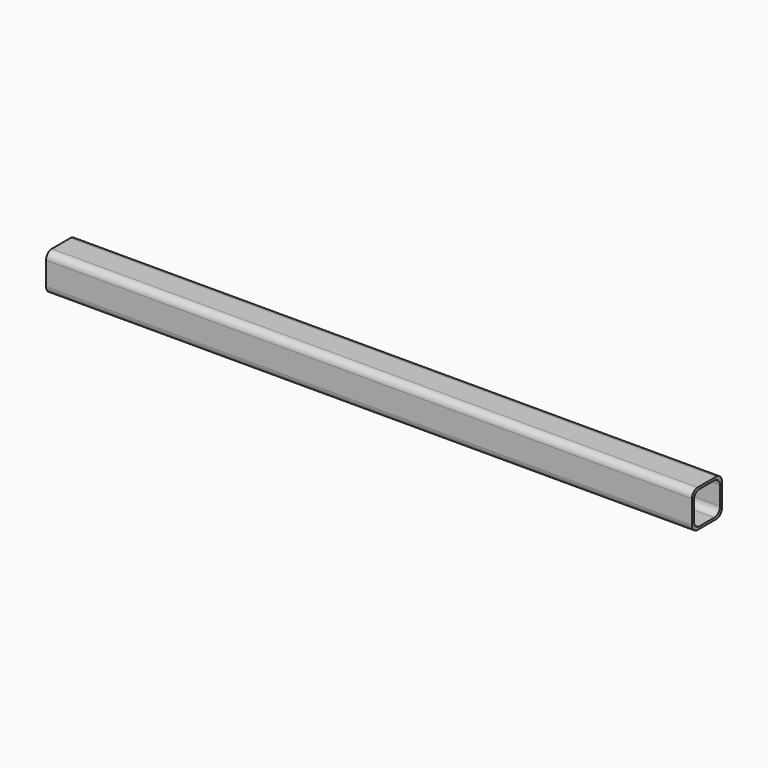
from build123d import *

# Parameters (mm, degrees)
F0_W     = 50.8
F0_H     = 50.8
F1_DEPTH = 876.3
F2_W     = 44.45
F2_H     = 44.45
F3_DEPTH = 876.3
F4_R     = 9.525


with BuildPart() as f1:
    # F0 (on Right) → F1 (new body)
    with BuildSketch(Plane.YZ):
        with Locations((25.4, 25.4)):
            Rectangle(F0_W, F0_H)
    extrude(amount=-F1_DEPTH)

    # F2 (on face) → F3 (cut)
    with BuildSketch(Plane.YZ):
        with Locations((25.4, 25.4)):
            Rectangle(F2_W, F2_H)
    extrude(amount=-F3_DEPTH, mode=Mode.SUBTRACT)

    # F4
    f4_edges = [f1.edges().sort_by_distance(p)[0] for p in [
        (-438.15, 3.175, 3.175),
        (-438.15, 47.625, 3.175),
        (-438.15, 47.625, 47.625),
        (-438.15, 3.175, 47.625),
        (-438.15, 50.8, 0),
        (-438.15, 50.8, 50.8),
        (-438.15, 0, 50.8),
        (-438.15, 0, 0),
    ]]
    fillet(f4_edges, radius=F4_R)


solid = f1.part
